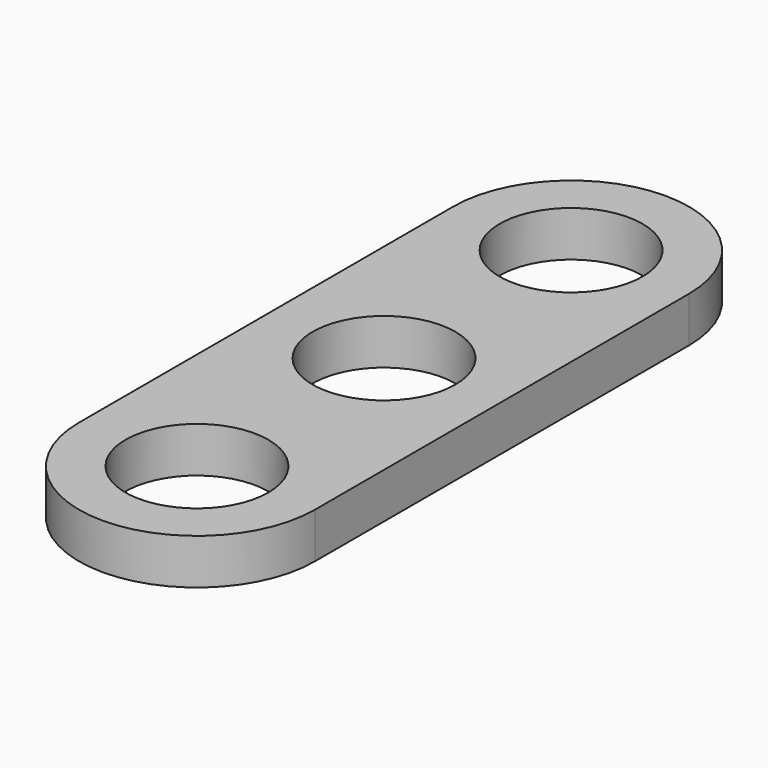
from build123d import *

# Parameters (mm, degrees)
F0_R     = 11
F1_DEPTH = 7


with BuildPart() as f1:
    # F0 (on Top) → F1 (new body)
    with BuildSketch(Plane.XY):
        with BuildLine():
            ThreePointArc((18.15895, 36), (-1e-06, 54.158951), (-18.158952, 36))
            Line((-18.158952, 36), (-18.158952, -36))
            ThreePointArc((-18.158952, -36), (-1e-06, -54.158951), (18.15895, -36))
            Line((18.15895, -36), (18.15895, 36))
        make_face()
        with Locations((-1e-06, -36)):
            Circle(F0_R, mode=Mode.SUBTRACT)
        with Locations((-1e-06, 36)):
            Circle(F0_R, mode=Mode.SUBTRACT)
        Circle(F0_R, mode=Mode.SUBTRACT)
    extrude(amount=F1_DEPTH)


solid = f1.part
